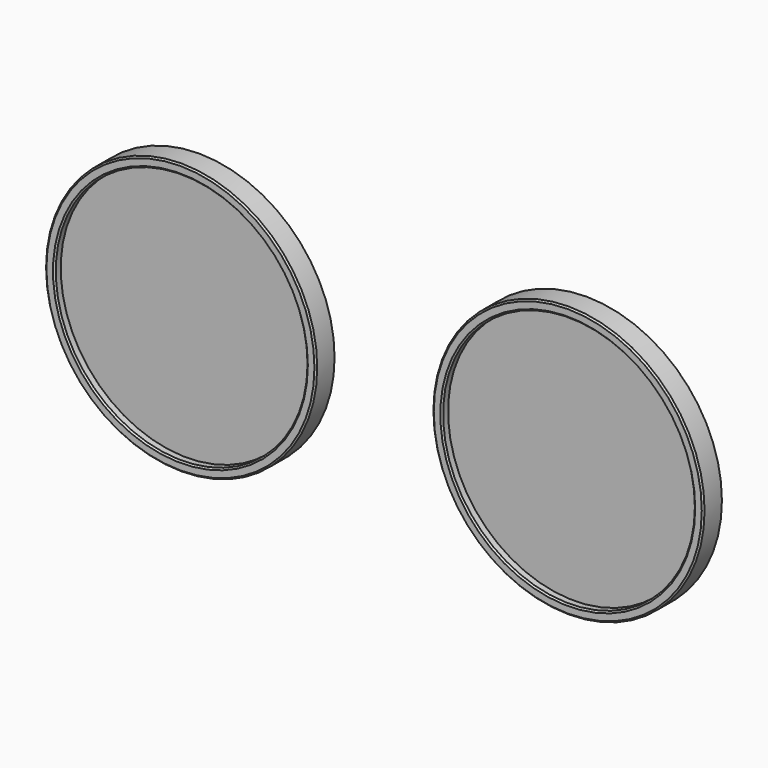
from build123d import *

# Parameters (mm, degrees)
F0_R     = 20.6375
F1_DEPTH = 2.54
F0_R_2   = 22.225
F2_DEPTH = 3.81
F3_SIZE  = 0.254


with BuildPart() as f1:
    # F0 (on Front) → F1 (new body)
    with BuildSketch(Plane.XZ):
        with Locations((-31.75, 0)):
            Circle(F0_R)
        with Locations((31.75, 0)):
            Circle(F0_R)
    extrude(amount=F1_DEPTH)

    # F0 (on Front) → F2 (join)
    with BuildSketch(Plane.XZ):
        with Locations((-31.75, 0)):
            Circle(F0_R_2)
        with Locations((-31.75, 0)):
            Circle(F0_R, mode=Mode.SUBTRACT)
        with Locations((31.75, 0)):
            Circle(F0_R_2)
        with Locations((31.75, 0)):
            Circle(F0_R, mode=Mode.SUBTRACT)
    extrude(amount=F2_DEPTH)

    # F3
    f3_edges = [f1.edges().sort_by_distance(p)[0] for p in [
        (-52.3875, -3.81, 0),
        (-53.975, -3.81, 0),
        (11.1125, -3.81, 0),
        (9.525, -3.81, 0),
    ]]
    chamfer(f3_edges, length=F3_SIZE)


solid = f1.part
